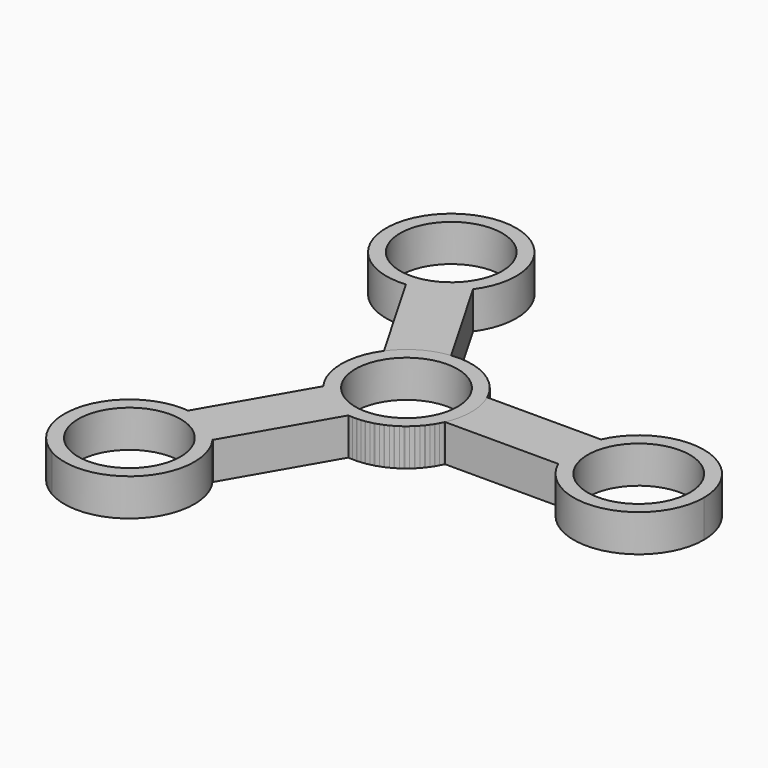
from build123d import *

# Parameters (mm, degrees)
F0_R     = 11
F1_DEPTH = 8
F3_COUNT = 3


with BuildPart() as f1:
    # F0 (on Top) → F1 (new body)
    with BuildSketch(Plane.XY):
        with BuildLine():
            ThreePointArc((12.756432, 5.768313), (13.685577, 2.950419), (14, 0))
            ThreePointArc((14, 0), (13.698736, -2.888706), (12.807911, -5.653089))
            Line((12.807911, -5.653089), (37.192089, -5.653089))
            ThreePointArc((37.192089, -5.653089), (36, 0), (37.192089, 5.653089))
            Line((37.192089, 5.653089), (37.192089, 5.768313))
            Line((37.192089, 5.768313), (12.756432, 5.768313))
        make_face()
        with BuildLine():
            ThreePointArc((12.807911, -5.653089), (13.698736, -2.888706), (14, 0))
            ThreePointArc((14, 0), (13.685577, 2.950419), (12.756432, 5.768313))
            ThreePointArc((12.756432, 5.768313), (-13.999858, -0.063101), (12.807911, -5.653089))
        make_face()
        Circle(F0_R, mode=Mode.SUBTRACT)
        with BuildLine():
            ThreePointArc((37.192089, 5.653089), (36, 0), (37.192089, -5.653089))
            ThreePointArc((37.192089, -5.653089), (52.888706, -13.698736), (64, 0))
            ThreePointArc((64, 0), (52.888706, 13.698736), (37.192089, 5.653089))
        make_face()
        with Locations((50, 0)):
            Circle(F0_R, mode=Mode.SUBTRACT)
    extrude(amount=F1_DEPTH)


with BuildPart() as f3_1:
    # F3: instance of F1
    add(f1.part.rotate(Axis((0, 0, 34.377865), (0, 0, 1)), 1 * 360 / F3_COUNT))


with BuildPart() as f3_2:
    # F3: instance of F1
    add(f1.part.rotate(Axis((0, 0, 34.377865), (0, 0, 1)), 2 * 360 / F3_COUNT))


solid = Compound([f1.part, f3_1.part, f3_2.part])
